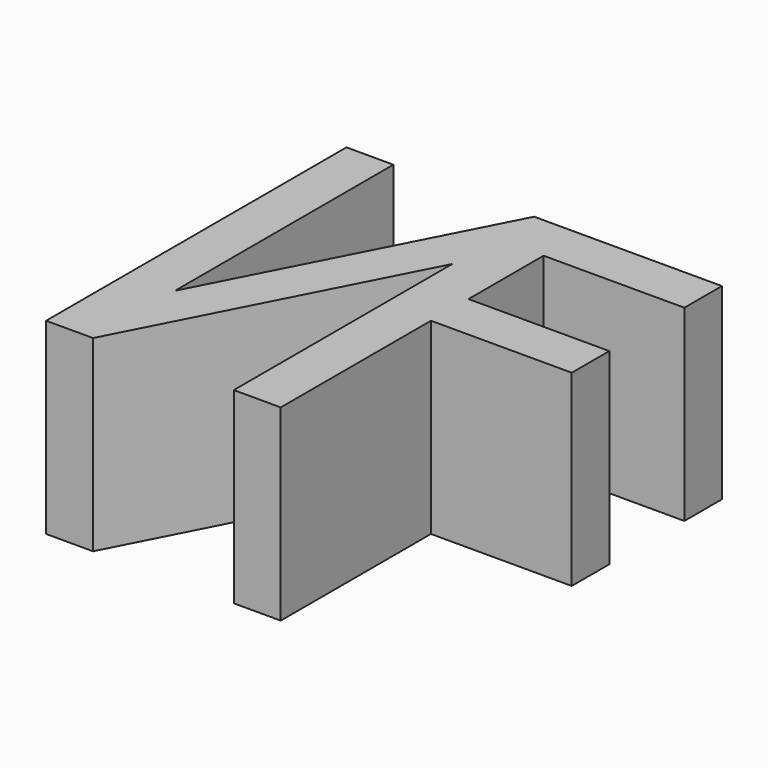
from build123d import *

# Parameters (mm, degrees)
F0_W     = 19.05
F0_H     = 6.35
F1_DEPTH = 25.4


with BuildPart() as f1:
    # F0 (on Top) → F1 (new body)
    with BuildSketch(Plane.XY):
        Polygon((0, 50.8), (0, 0), (6.35, 0), (6.35, 13.855576), (6.35, 50.8), align=None)
        Polygon((6.35, 13.855576), (6.35, 0), (25.4, 36.944424), (25.4, 50.8), align=None)
        Polygon((25.4, 50.8), (25.4, 36.944424), (25.4, 0), (31.75, 0), (31.75, 25.4), (31.75, 31.75), (31.75, 44.45), (31.75, 50.8), align=None)
        with Locations((41.275, 47.625)):
            Rectangle(F0_W, F0_H)
        with Locations((41.275, 28.575)):
            Rectangle(F0_W, F0_H)
    extrude(amount=F1_DEPTH)


solid = f1.part
